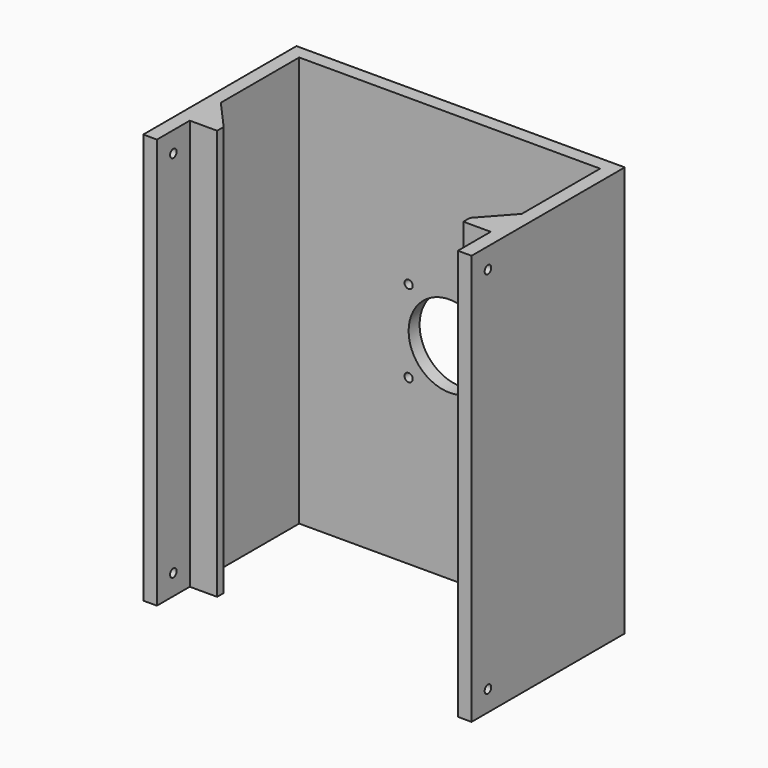
from build123d import *

# Parameters (mm, degrees)
F0_W      = 120
F0_H      = 150
F1_DEPTH  = 5
F2_W      = 5
F2_H      = 150
F3_DEPTH  = 65
F4_W      = 3
F4_H      = 150
F5_DEPTH  = 10
F6_W      = 3
F6_H      = 150
F7_DEPTH  = 10
F9_DEPTH  = 150
F10_DEPTH = 150
F12_D     = 3
F13_D     = 30
F15_D     = 3


with BuildPart() as f1:
    # F0 (on Front) → F1 (new body)
    with BuildSketch(Plane.XZ):
        Rectangle(F0_W, F0_H)
    extrude(amount=F1_DEPTH)

    # F2 (on face) → F3 (join)
    with BuildSketch(Plane.XZ.offset(5)):
        with Locations((-57.5, 0)):
            Rectangle(F2_W, F2_H)
        with Locations((57.5, 0)):
            Rectangle(F2_W, F2_H)
    extrude(amount=F3_DEPTH)

    # F4 (on face) → F5 (join)
    with BuildSketch(Plane(origin=(55, 0, 0), x_dir=(0, -1, 0), z_dir=(-1, 0, 0))):
        with Locations((53.5, 0)):
            Rectangle(F4_W, F4_H)
    extrude(amount=F5_DEPTH)

    # F6 (on face) → F7 (join)
    with BuildSketch(Plane.YZ.offset(-55)):
        with Locations((-53.5, 0)):
            Rectangle(F6_W, F6_H)
    extrude(amount=F7_DEPTH)

    # F8 (on face) → F9 (join)
    with BuildSketch(Plane.XY.offset(75)):
        Polygon((55, -40.81966), (45, -52), (55, -52), align=None)
    extrude(amount=-F9_DEPTH)

    # F8 (on face) → F10 (join)
    with BuildSketch(Plane.XY.offset(75)):
        Polygon((55, -40.81966), (45, -52), (55, -52), align=None)
        Polygon((-55, -52), (-45, -52), (-55, -40.81966), align=None)
    extrude(amount=-F10_DEPTH)

    # F12 (through all)
    with Locations(Plane.XZ.offset(5)):
        with Locations((-15, 15), (0, 0), (-15, -15), (15, -15), (15, 15)):
            Hole(F12_D / 2)

    # F13 (through all)
    with Locations(Plane(origin=(0, 0, 0), x_dir=(1, 0, 0), z_dir=(0, 1, 0))):
        with Locations((0, 0)):
            Hole(F13_D / 2)

    # F15 (through all)
    with Locations(Plane.YZ.offset(60)):
        with Locations((-62.5, -67.5), (-62.5, 67.5)):
            Hole(F15_D / 2)


solid = f1.part
